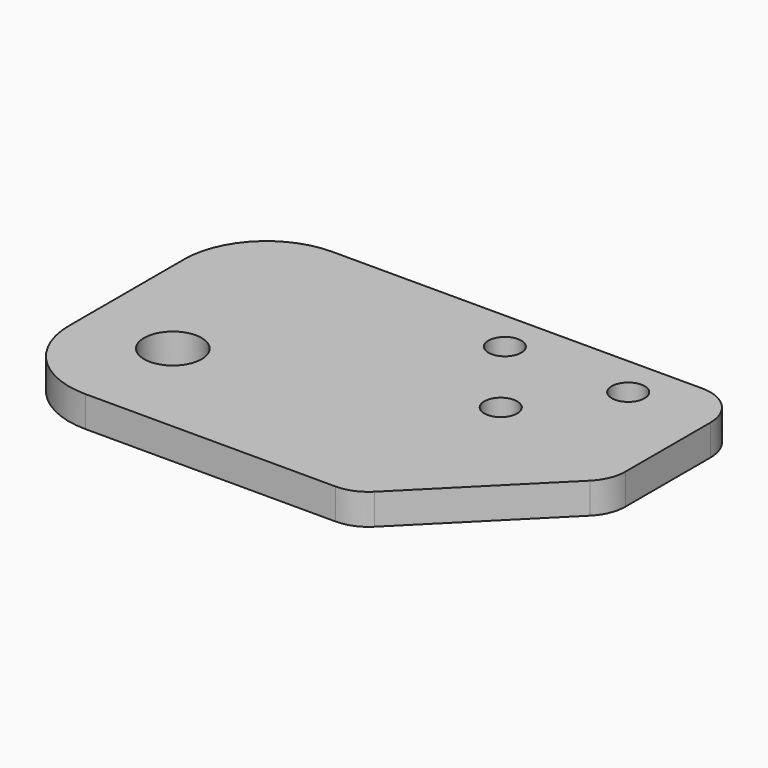
from build123d import *

# Parameters (mm, degrees)
SKETCH070_W     = 48
SKETCH070_H     = 30
SKETCH070_R     = 2.8
SKETCH070_R_2   = 1.6
PAD025_DEPTH    = 3
CHAMFER029_SIZE = 14
FILLET015_R     = 8
FILLET016_R     = 4


with BuildPart() as part:
    # Sketch070 → Pad025 (new body)
    with BuildSketch(Plane.XY):
        with Locations((4, 5)):
            Rectangle(SKETCH070_W, SKETCH070_H)
        with Locations((-11.5, 0)):
            Circle(SKETCH070_R, mode=Mode.SUBTRACT)
        with Locations((8, 16)):
            Circle(SKETCH070_R_2, mode=Mode.SUBTRACT)
        with Locations((20, 16)):
            Circle(SKETCH070_R_2, mode=Mode.SUBTRACT)
        with Locations((14, 8)):
            Circle(SKETCH070_R_2, mode=Mode.SUBTRACT)
    extrude(amount=-PAD025_DEPTH)

    # Chamfer029
    chamfer029_edges = [part.edges().sort_by_distance(p)[0] for p in [
        (28, -10, -1.5),
    ]]
    chamfer(chamfer029_edges, length=CHAMFER029_SIZE)

    # Fillet015
    fillet015_edges = [part.edges().sort_by_distance(p)[0] for p in [
        (-20, -10, -1.5),
        (-20, 20, -1.5),
    ]]
    fillet(fillet015_edges, radius=FILLET015_R)

    # Fillet016
    fillet016_edges = [part.edges().sort_by_distance(p)[0] for p in [
        (28, 20, -1.5),
        (28, 4, -1.5),
        (14, -10, -1.5),
    ]]
    fillet(fillet016_edges, radius=FILLET016_R)


with BuildPart() as part_1:
    # Body014 placement: moved
    add(part.part.moved(Location((108, -82, -3.7))))


solid = part_1.part
